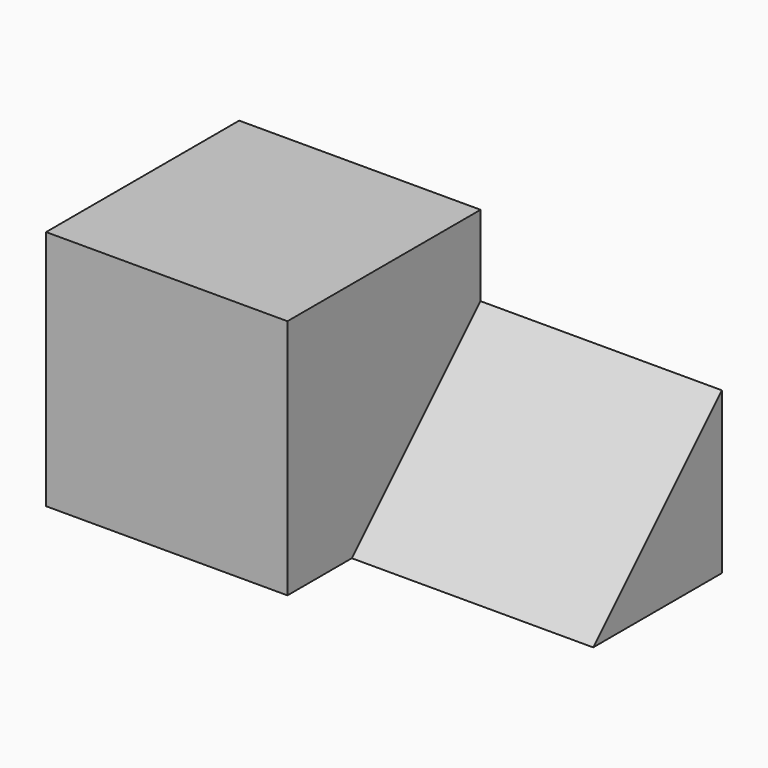
from build123d import *

# Parameters (mm, degrees)
F0_W     = 38.1
F0_H     = 38.1
F1_DEPTH = 38.1
F3_DEPTH = 38.1


with BuildPart() as f1:
    # F0 (on Top) → F1 (new body)
    with BuildSketch(Plane.XY):
        with Locations((2.80316, -7.937101)):
            Rectangle(F0_W, F0_H)
    extrude(amount=F1_DEPTH)

    # F2 (on face) → F3 (join)
    with BuildSketch(Plane.YZ.offset(21.85316)):
        Polygon((11.112899, 0), (11.112899, 25.4), (-14.287101, 0), align=None)
    extrude(amount=F3_DEPTH)


solid = f1.part
